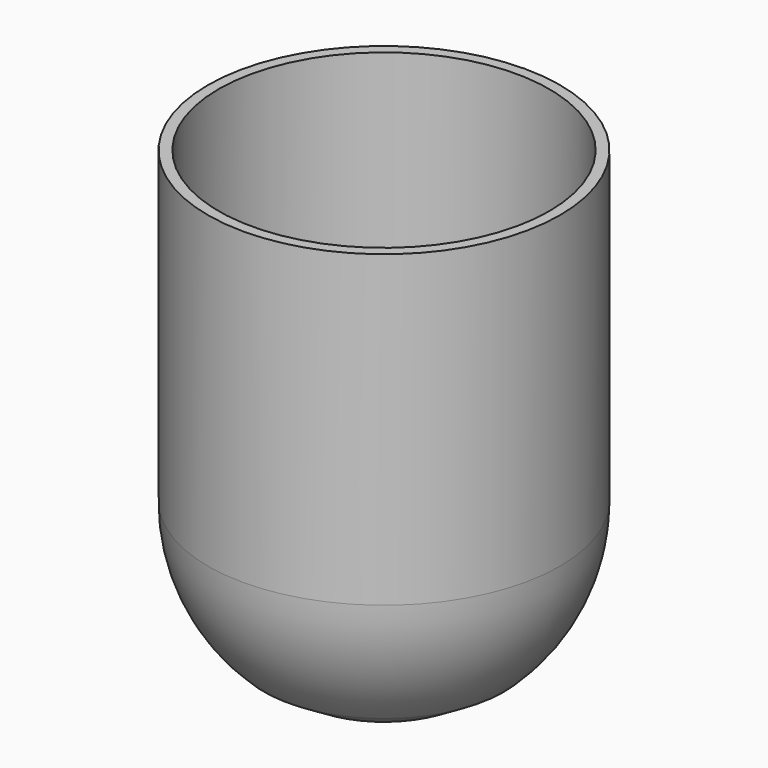
from build123d import *


with BuildPart() as f1:
    # F0 (on Front) → F1 (revolve)
    with BuildSketch(Plane.XZ):
        with BuildLine():
            Line((14.0776925304, -18.1884186509), (4.2091550719, -22.6115681363))
            ThreePointArc((4.2091550719, -22.6115681363), (9.407085715, -20.9882523891), (14.0776925304, -18.1884186509))
        make_face()
        with BuildLine():
            ThreePointArc((4.2091550719, -22.6115681363), (2.1135199154, -22.9026861649), (0, -23))
            Line((0, -23), (0, -24.5))
            ThreePointArc((0, -24.5), (1.5338781277, -24.4519368944), (3.0617380556, -24.3079361542))
            Line((3.0617380556, -24.3079361542), (11.7591032758, -20.9216848016))
            Line((11.7591032758, -20.9216848016), (16.7031835756, -17.923550386))
            ThreePointArc((16.7031835756, -17.923550386), (22.4663971033, -9.7729729969), (24.5, 0))
            Line((24.5, 0), (24.5, 43))
            Line((24.5, 43), (23, 43))
            Line((23, 43), (23, 0))
            ThreePointArc((23, 0), (20.6492969396, -10.1294884323), (14.0776925304, -18.1884186509))
            ThreePointArc((14.0776925304, -18.1884186509), (9.407085715, -20.9882523891), (4.2091550719, -22.6115681363))
        make_face()
        with BuildLine():
            ThreePointArc((3.0617380556, -24.3079361542), (1.5338781277, -24.4519368944), (0, -24.5))
            Line((0, -24.5), (0, -25.5))
            Line((0, -25.5), (3.0617380556, -24.3079361542))
        make_face()
    revolve(axis=Axis((0, 0, 24), (0, 0, 1)))


solid = f1.part
